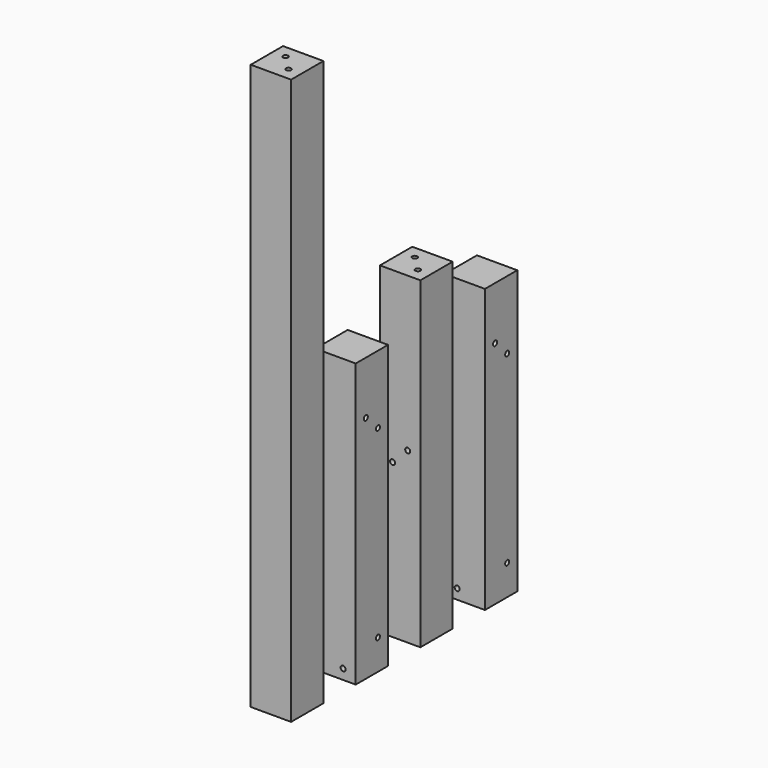
from build123d import *

# Parameters (mm, degrees)
F0_W      = 101.6
F0_H      = 101.6
F1_DEPTH  = 711.2
F2_W      = 101.6
F2_H      = 101.6
F3_DEPTH  = 1422.4
F4_W      = 101.6
F4_H      = 101.6
F5_DEPTH  = 812.8
F6_R      = 6.35
F7_DEPTH  = 304.801
F8_R      = 6.35
F9_DEPTH  = 101.601
F10_R     = 6.35
F11_DEPTH = 101.601
F12_R     = 6.35
F13_DEPTH = 76.2
F14_R     = 6.35
F15_DEPTH = 508.001
F16_R     = 6.35
F17_DEPTH = 76.2
F18_R     = 6.35
F19_DEPTH = 76.2
F20_R     = 6.35
F21_DEPTH = 76.2
F22_W     = 101.6
F22_H     = 101.6
F23_DEPTH = 711.2
F24_R     = 6.35
F25_DEPTH = 101.601
F26_R     = 6.35
F27_DEPTH = 711.201
F28_R     = 6.35
F29_DEPTH = 101.601


with BuildPart() as f1:
    # F0 (on Top) → F1 (new body)
    with BuildSketch(Plane.XY):
        with Locations((0, 50.8)):
            Rectangle(F0_W, F0_H)
    extrude(amount=F1_DEPTH)

    # F6 (on face) → F7 (cut, through all)
    with BuildSketch(Plane(origin=(0, 101.6, 0), x_dir=(-1, 0, 0), z_dir=(0, 1, 0))):
        with Locations((-19.05, 25.4)):
            Circle(F6_R)
    extrude(amount=-F7_DEPTH, mode=Mode.SUBTRACT)

    # F8 (on face) → F9 (cut, through all)
    with BuildSketch(Plane(origin=(-50.8, 0, 0), x_dir=(0, -1, 0), z_dir=(-1, 0, 0))):
        with Locations((-69.85, 76.2)):
            Circle(F8_R)
    extrude(amount=-F9_DEPTH, mode=Mode.SUBTRACT)

    # F10 (on face) → F11 (cut, through all)
    with BuildSketch(Plane(origin=(-50.8, 0, 0), x_dir=(0, -1, 0), z_dir=(-1, 0, 0))):
        with Locations((-31.75, 577.85)):
            Circle(F10_R)
        with Locations((-69.85, 539.75)):
            Circle(F10_R)
    extrude(amount=-F11_DEPTH, mode=Mode.SUBTRACT)


with BuildPart() as f3:
    # F2 (on Top) → F3 (new body)
    with BuildSketch(Plane.XY):
        with Locations((0, -152.4)):
            Rectangle(F2_W, F2_H)
    extrude(amount=F3_DEPTH)

    # F12 (on face) → F13 (cut)
    with BuildSketch(Plane(origin=(0, 0, 0), x_dir=(1, 0, 0), z_dir=(0, 0, -1))):
        with Locations((19.05, 171.45)):
            Circle(F12_R)
        with Locations((-19.05, 133.35)):
            Circle(F12_R)
    extrude(amount=-F13_DEPTH, mode=Mode.SUBTRACT)

    # F16 (on face) → F17 (cut)
    with BuildSketch(Plane.XY.offset(1422.4)):
        with Locations((-19.05, -133.35)):
            Circle(F16_R)
        with Locations((19.05, -171.45)):
            Circle(F16_R)
    extrude(amount=-F17_DEPTH, mode=Mode.SUBTRACT)


with BuildPart() as f5:
    # F4 (on Top) → F5 (new body)
    with BuildSketch(Plane.XY):
        with Locations((0, 254)):
            Rectangle(F4_W, F4_H)
    extrude(amount=F5_DEPTH)

    # F14 (on face) → F15 (cut, through all)
    with BuildSketch(Plane(origin=(0, 304.8, 0), x_dir=(-1, 0, 0), z_dir=(0, 1, 0))):
        with Locations((19.05, 387.35)):
            Circle(F14_R)
        with Locations((-19.05, 425.45)):
            Circle(F14_R)
    extrude(amount=-F15_DEPTH, mode=Mode.SUBTRACT)

    # F18 (on face) → F19 (cut)
    with BuildSketch(Plane.XY.offset(812.8)):
        with Locations((-19.05, 273.05)):
            Circle(F18_R)
        with Locations((19.05, 234.95)):
            Circle(F18_R)
    extrude(amount=-F19_DEPTH, mode=Mode.SUBTRACT)

    # F20 (on face) → F21 (cut)
    with BuildSketch(Plane(origin=(0, 0, 0), x_dir=(1, 0, 0), z_dir=(0, 0, -1))):
        with Locations((19.05, -234.95)):
            Circle(F20_R)
        with Locations((-19.05, -273.05)):
            Circle(F20_R)
    extrude(amount=-F21_DEPTH, mode=Mode.SUBTRACT)


with BuildPart() as f23:
    # F22 (on Top) → F23 (new body)
    with BuildSketch(Plane.XY):
        with Locations((0, 457.2)):
            Rectangle(F22_W, F22_H)
    extrude(amount=F23_DEPTH)

    # F24 (on face) → F25 (cut, through all)
    with BuildSketch(Plane.YZ.offset(50.8)):
        with Locations((476.25, 539.75)):
            Circle(F24_R)
        with Locations((438.15, 577.85)):
            Circle(F24_R)
    extrude(amount=-F25_DEPTH, mode=Mode.SUBTRACT)

    # F26 (on face) → F27 (cut, through all)
    with BuildSketch(Plane(origin=(0, 508, 0), x_dir=(-1, 0, 0), z_dir=(0, 1, 0))):
        with Locations((19.05, 25.4)):
            Circle(F26_R)
    extrude(amount=-F27_DEPTH, mode=Mode.SUBTRACT)

    # F28 (on face) → F29 (cut, through all)
    with BuildSketch(Plane.YZ.offset(50.8)):
        with Locations((476.25, 76.2)):
            Circle(F28_R)
    extrude(amount=-F29_DEPTH, mode=Mode.SUBTRACT)


solid = Compound([f1.part, f3.part, f5.part, f23.part])
